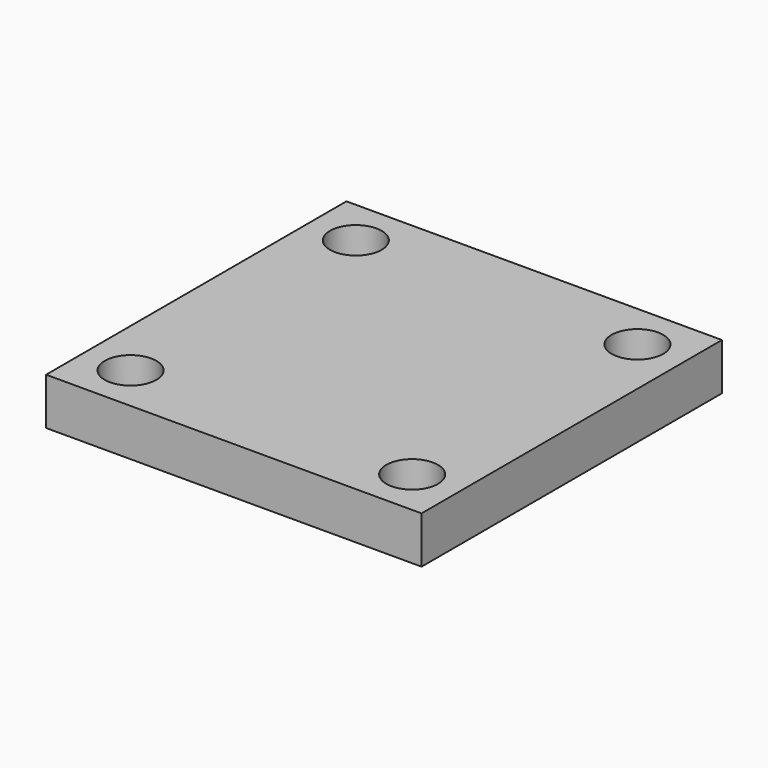
from build123d import *

# Parameters (mm, degrees)
F0_W     = 40
F0_H     = 40
F1_DEPTH = 5
F2_D     = 5.5


with BuildPart() as f1:
    # F0 (on Top) → F1 (new body)
    with BuildSketch(Plane.XY):
        with Locations((20, -20)):
            Rectangle(F0_W, F0_H)
    extrude(amount=F1_DEPTH)

    # F2 (through all)
    with Locations(Plane(origin=(0, 0, 0), x_dir=(1, 0, 0), z_dir=(0, 0, -1))):
        with Locations((5, 5), (5, 35), (35, 35), (35, 5)):
            Hole(F2_D / 2)


solid = f1.part
